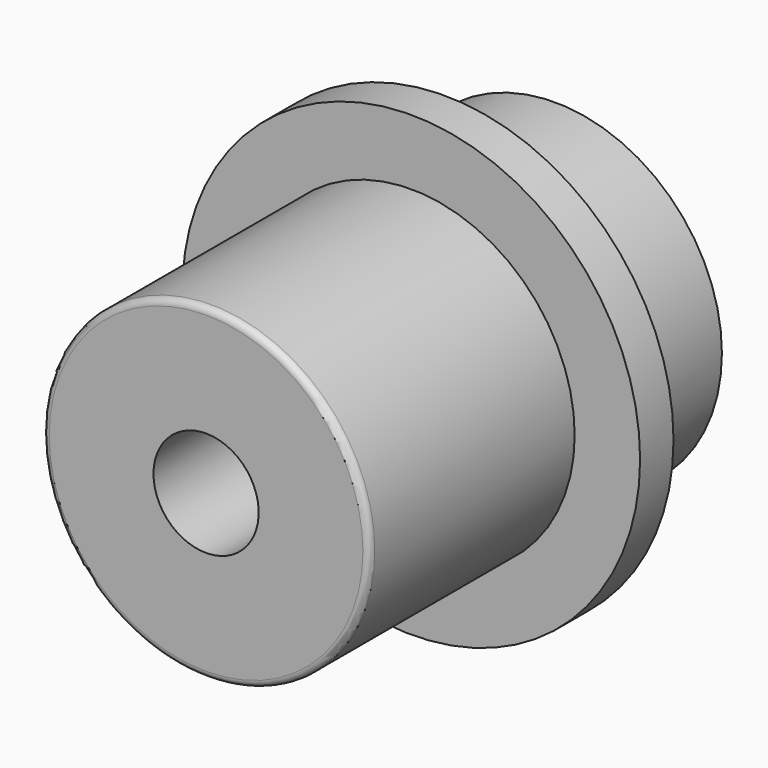
from build123d import *

# Parameters (mm, degrees)
F0_R     = 34.8
F1_DEPTH = 6.35
F2_R     = 24.85
F3_DEPTH = 39
F4_R     = 1
F5_R     = 25.36
F6_DEPTH = 21
F7_R     = 14.86
F8_DEPTH = 10
F10_D    = 16


with BuildPart() as f1:
    # F0 (on Front) → F1 (new body)
    with BuildSketch(Plane.XZ):
        Circle(F0_R)
    extrude(amount=F1_DEPTH)

    # F2 (on face) → F3 (join)
    with BuildSketch(Plane.XZ.offset(6.35)):
        Circle(F2_R)
    extrude(amount=F3_DEPTH)

    # F4
    f4_edges = [f1.edges().sort_by_distance(p)[0] for p in [
        (-24.85, -45.35, 0),
    ]]
    fillet(f4_edges, radius=F4_R)

    # F5 (on face) → F6 (join)
    with BuildSketch(Plane(origin=(0, 0, 0), x_dir=(-1, 0, 0), z_dir=(0, 1, 0))):
        Circle(F5_R)
    extrude(amount=F6_DEPTH)

    # F7 (on face) → F8 (join)
    with BuildSketch(Plane(origin=(0, 21, 0), x_dir=(-1, 0, 0), z_dir=(0, 1, 0))):
        Circle(F7_R)
    extrude(amount=F8_DEPTH)

    # F10 (through all)
    with Locations(Plane.XZ.offset(45.35)):
        with Locations((0, 0)):
            Hole(F10_D / 2)


solid = f1.part
